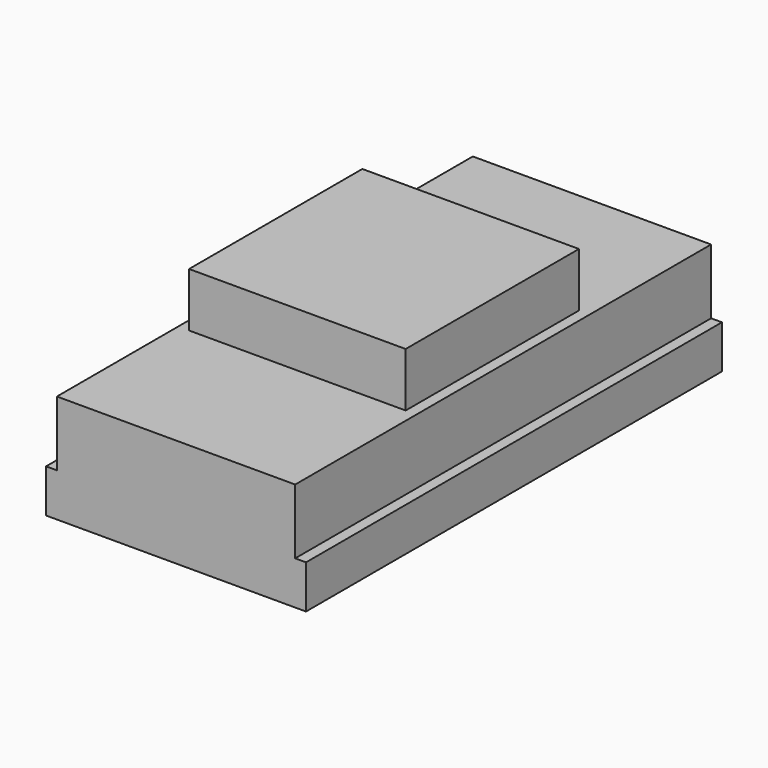
from build123d import *

# Parameters (mm, degrees)
SKETCH003_W             = 1219.2
SKETCH003_H             = 609.6
PAD004_DEPTH            = 101.6
SKETCH005_W             = 1219.2
SKETCH005_H             = 558.8
PAD005_DEPTH            = 152.4
SKETCH004_W             = 508
SKETCH004_H             = 508
PAD003_DEPTH            = 127
BODY001_PLACEMENT_ANGLE = 90


with BuildPart() as part:
    # Sketch003 → Pad004 (new body)
    with BuildSketch(Plane.XY):
        with Locations((609.6, 304.8)):
            Rectangle(SKETCH003_W, SKETCH003_H)
    extrude(amount=PAD004_DEPTH)

    # Sketch005 (on Face6 of Pad004) → Pad005 (join)
    with BuildSketch(Plane.XY.offset(101.6)):
        with Locations((609.6, 304.8)):
            Rectangle(SKETCH005_W, SKETCH005_H)
    extrude(amount=PAD005_DEPTH)

    # Sketch004 (on Face12 of Pad005) → Pad003 (join)
    with BuildSketch(Plane.XY.offset(254)):
        with Locations((609.6, 304.8)):
            Rectangle(SKETCH004_W, SKETCH004_H)
    extrude(amount=PAD003_DEPTH)


with BuildPart() as part_1:
    # Body001 placement: moved
    add(part.part.moved(Location((-1603.1845, 1219.2, 2458.9105))).rotate(Axis((-1603.1845, 1219.2, 2458.9105), (0, 0, 1)), BODY001_PLACEMENT_ANGLE))


solid = part_1.part
